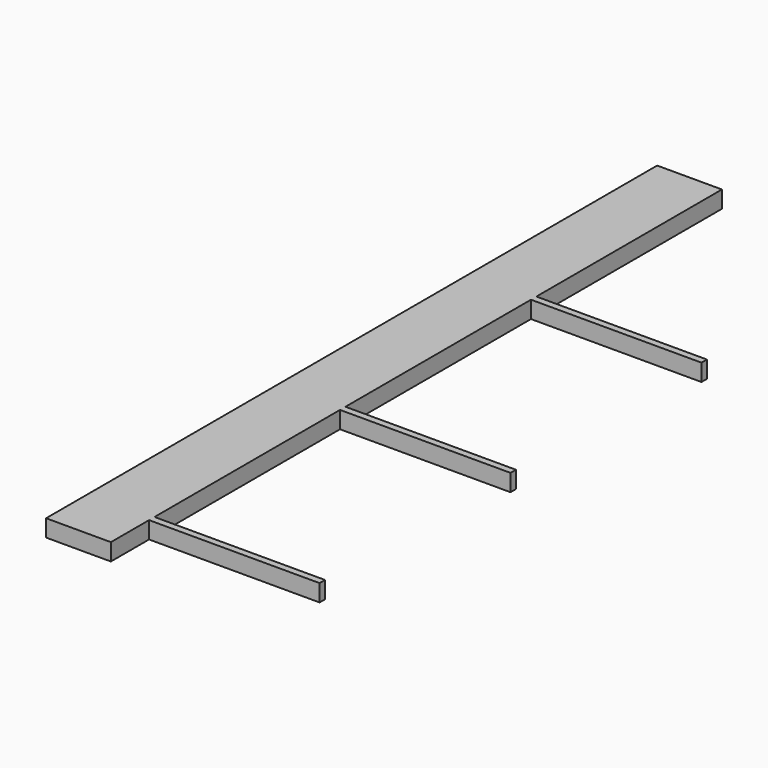
from build123d import *

# Parameters (mm, degrees)
F1_DEPTH = 5


with BuildPart() as f1:
    # F0 (on Top) → F1 (new body)
    with BuildSketch(Plane.XY):
        Polygon((-9.5, -112), (9.5, -112), (9.5, -98), (59.5, -98), (59.5, -96), (9.5, -96), (9.5, -28), (59.5, -28), (59.5, -26), (9.5, -26), (9.5, 42), (59.5, 42), (59.5, 44), (9.5, 44), (9.5, 112), (-9.5, 112), align=None)
    extrude(amount=F1_DEPTH)


solid = f1.part
